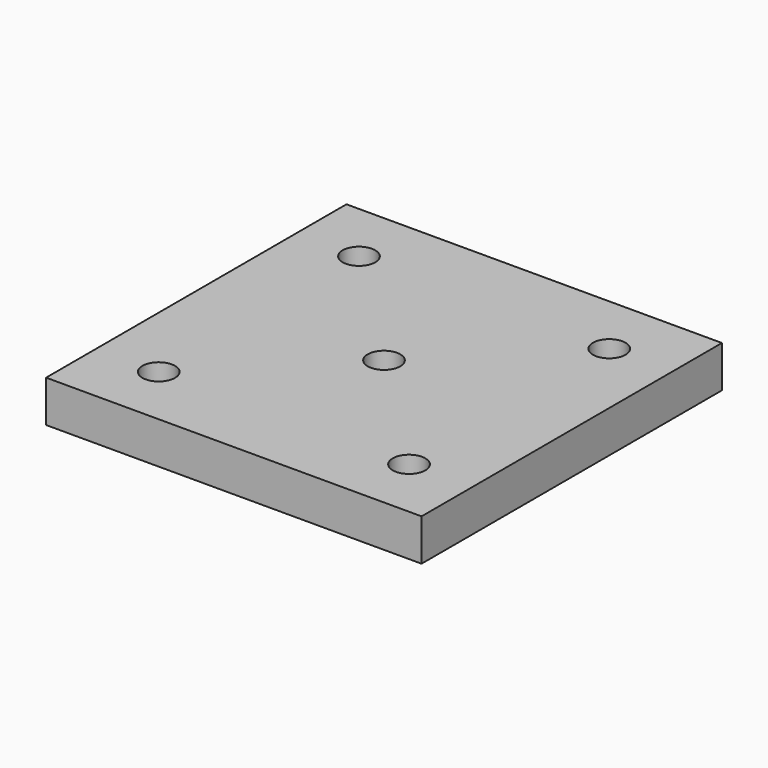
from build123d import *

# Parameters (mm, degrees)
F0_W     = 228.6
F0_H     = 228.6
F1_DEPTH = 12.7
F3_D     = 19.84248
F4_D     = 19.84248


with BuildPart() as f1:
    # F0 (on Top) → F1 (new body, symmetric)
    with BuildSketch(Plane.XY):
        Rectangle(F0_W, F0_H)
    extrude(amount=F1_DEPTH, both=True)

    # F3 (through all)
    with Locations(Plane.XY.offset(12.7)):
        with Locations((-76.2, 76.2), (76.2, 76.2), (-76.2, -76.2), (76.2, -76.2)):
            Hole(F3_D / 2)

    # F4 (through all)
    with Locations(Plane.XY.offset(12.7)):
        with Locations((0, 0)):
            Hole(F4_D / 2)


solid = f1.part
